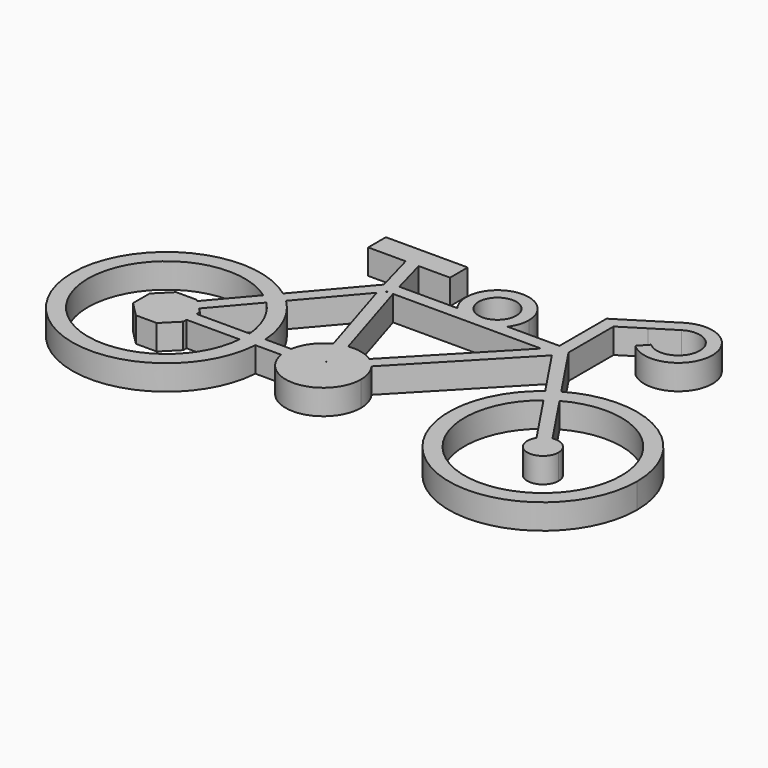
from build123d import *

# Parameters (mm, degrees)
F1_DEPTH = 4


with BuildPart() as f1:
    # F0 (on Top) → F1 (new body)
    with BuildSketch(Plane.XY):
        Polygon((-15.5243815389, 28.3477026969), (-9.5569409153, 28.3477026969), (-8.5199938287, 28.3477026969), (-7.4830467421, 28.3477026969), (-2.4825821165, 28.3477026969), (-2.4825821165, 31.8725127727), (-15.5243815389, 31.8725127727), align=None)
        with BuildLine():
            Line((7.3588635176, 22.4989129454), (11.3588635176, 22.4989129454))
            ThreePointArc((11.3588635176, 22.4989129454), (12.1022800079, 23.9177741153), (12.3588635176, 25.4989129454))
            ThreePointArc((12.3588635176, 25.4989129454), (5.7777246876, 30.2423294356), (3.3588635176, 22.4989129454))
            Line((3.3588635176, 22.4989129454), (7.3588635176, 22.4989129454))
        make_face()
        with BuildLine():
            ThreePointArc((10.3588635176, 25.4989129454), (9.4801838612, 23.3775926018), (7.3588635176, 22.4989129454))
            ThreePointArc((7.3588635176, 22.4989129454), (5.2375431741, 27.6202332889), (10.3588635176, 25.4989129454))
        make_face(mode=Mode.SUBTRACT)
        Polygon((21.6349155158, 22.5854356274), (21.5552828644, 22.4989129454), (21.6349155158, 22.4989129454), align=None)
        with BuildLine():
            Line((-10.0333704529, -1), (-5.9160797831, -1))
            ThreePointArc((-5.9160797831, -1), (-5.9789831367, -0.5017575617), (-6, 0))
            Line((-6, 0), (-10, 0))
            ThreePointArc((-10, 0), (-10.0083449345, -0.5002783193), (-10.0333704529, -1))
        make_face()
        with BuildLine():
            Line((27.2461703771, 9.8044952026), (25.8535279477, 11.8887362237))
            ThreePointArc((25.8535279477, 11.8887362237), (28.3741823442, -13.4572857736), (50, 0))
            ThreePointArc((50, 0), (42.508229605, 12.9856262151), (27.5164682401, 12.9998750917))
            Line((27.5164682401, 12.9998750917), (28.9091106695, 10.9156340706))
            ThreePointArc((28.9091106695, 10.9156340706), (41.3290553548, 10.7792883956), (47.5, 0))
            ThreePointArc((47.5, 0), (29.5535732029, -11.2510637339), (27.2461703771, 9.8044952026))
        make_face()
        with BuildLine():
            ThreePointArc((-16.0413098576, 12.0308715783), (-38.621899063, -6.2804351694), (-10.0333704529, -1))
            Line((-10.0333704529, -1), (-12.5400642056, -1))
            ThreePointArc((-12.5400642056, -1), (-36.3515825525, -5.2336959745), (-17.6691263456, 10.1246378436))
            Line((-17.6691263456, 10.1246378436), (-16.0413098576, 12.0308715783))
        make_face()
        with BuildLine():
            ThreePointArc((27.7840541056, 36.9915858101), (26.5245000959, 35.9002763927), (25.655754026, 34.4780553079))
            ThreePointArc((25.655754026, 34.4780553079), (25.4205728544, 33.7833933402), (25.2812581995, 33.0633538552))
            Line((25.2812581995, 33.0633538552), (28.8459285816, 35.2967635194))
            ThreePointArc((28.8459285816, 35.2967635194), (34.0729543544, 32.0804769566), (28.3451517253, 29.8762594705))
            Line((28.3451517253, 29.8762594705), (26.9907459113, 28.404666833))
            ThreePointArc((26.9907459113, 28.404666833), (36.0644734943, 31.8964891433), (27.7840541056, 36.9915858101))
        make_face()
        with BuildLine():
            Line((-5.6809818921, 21.7788360929), (-5.5945120398, 21.4989129454))
            Line((-5.5945120398, 21.4989129454), (4.3588635176, 21.4989129454))
            ThreePointArc((4.3588635176, 21.4989129454), (3.8233296117, 21.9633790395), (3.3588635176, 22.4989129454))
            Line((3.3588635176, 22.4989129454), (-5.8785236087, 22.4989129454))
            Line((-5.8785236087, 22.4989129454), (-5.6809818921, 21.7788360928))
        make_face()
        with BuildLine():
            Line((19.6349155158, 22.4989129454), (20.6349155158, 22.4989129454))
            Line((20.6349155158, 22.4989129454), (20.6349155158, 31.3322976225))
            Line((20.6349155158, 31.3322976225), (25.655754026, 34.4780553079))
            ThreePointArc((25.655754026, 34.4780553079), (26.5245000959, 35.9002763927), (27.7840541056, 36.9915858101))
            Line((27.7840541056, 36.9915858101), (19.6349155158, 31.8858220424))
            Line((19.6349155158, 31.8858220424), (19.6349155158, 22.4989129454))
        make_face()
        Polygon((20.1004037621, 20.4989129454), (20.4947406927, 19.9087447948), (21.0611911899, 20.4989129454), align=None)
        with BuildLine():
            ThreePointArc((4.1547675399, 4.3287303784), (4.5022097097, 3.9661199843), (4.8181111042, 3.5757244564))
            Line((4.8181111042, 3.5757244564), (20.4947406927, 19.9087447948))
            Line((20.4947406927, 19.9087447948), (20.1004037621, 20.4989129454))
            Line((20.1004037621, 20.4989129454), (19.6751034747, 20.4989129454))
            Line((19.6751034747, 20.4989129454), (4.1547675399, 4.3287303784))
        make_face()
        with BuildLine():
            ThreePointArc((27.5164682401, 12.9998750917), (27.0870611681, 12.7430529718), (26.6664584903, 12.472052193))
            Line((26.6664584903, 12.472052193), (28.0553820752, 10.3933768275))
            ThreePointArc((28.0553820752, 10.3933768275), (28.4770175144, 10.6630530099), (28.9091106695, 10.9156340706))
            Line((28.9091106695, 10.9156340706), (27.5164682401, 12.9998750917))
        make_face()
        with BuildLine():
            ThreePointArc((26.6664584903, 12.472052193), (26.2551281935, 12.1871742864), (25.8535279477, 11.8887362237))
            Line((25.8535279477, 11.8887362237), (27.2461703771, 9.8044952026))
            ThreePointArc((27.2461703771, 9.8044952026), (27.6448803225, 10.1070378712), (28.0553820752, 10.3933768275))
            Line((28.0553820752, 10.3933768275), (26.6664584903, 12.472052193))
        make_face()
        with BuildLine():
            Line((21.0611911899, 20.4989129454), (20.4947406927, 19.9087447948))
            Line((20.4947406927, 19.9087447948), (25.8535279477, 11.8887362237))
            ThreePointArc((25.8535279477, 11.8887362237), (26.2551281935, 12.1871742864), (26.6664584903, 12.472052193))
            Line((26.6664584903, 12.472052193), (21.3030927637, 20.4989129454))
            Line((21.3030927637, 20.4989129454), (21.0611911899, 20.4989129454))
        make_face()
        with BuildLine():
            ThreePointArc((-15.2591821222, 11.4068605265), (-15.6450415555, 11.7253892261), (-16.0413098576, 12.0308715783))
            Line((-16.0413098576, 12.0308715783), (-17.6691263456, 10.1246378436))
            ThreePointArc((-17.6691263456, 10.1246378436), (-17.2696924008, 9.8230516858), (-16.8826517685, 9.5057171054))
            Line((-16.8826517685, 9.5057171054), (-15.2591821222, 11.4068605265))
        make_face()
        with BuildLine():
            Line((-12.5400642056, -1), (-10.0333704529, -1))
            ThreePointArc((-10.0333704529, -1), (-10.0083449345, -0.5002783193), (-10, 0))
            Line((-10, 0), (-12.5, 0))
            ThreePointArc((-12.5, 0), (-12.5100200675, -0.5004011242), (-12.5400642056, -1))
        make_face()
        Polygon((-6.6411364824, 21.4989129454), (-5.5945120398, 21.4989129454), (-5.6809818921, 21.7788360929), (-5.8785236087, 22.4989129454), (-7.4830467421, 28.3477026969), (-8.5199938287, 28.3477026969), align=None)
        with BuildLine():
            Line((4.3588635176, 21.4989129454), (10.3588635176, 21.4989129454))
            ThreePointArc((10.3588635176, 21.4989129454), (10.8943974236, 21.9633790395), (11.3588635176, 22.4989129454))
            Line((11.3588635176, 22.4989129454), (7.3588635176, 22.4989129454))
            Line((7.3588635176, 22.4989129454), (3.3588635176, 22.4989129454))
            ThreePointArc((3.3588635176, 22.4989129454), (3.8233296117, 21.9633790395), (4.3588635176, 21.4989129454))
        make_face()
        with BuildLine():
            Line((10.3588635176, 21.4989129454), (19.2488278006, 21.4989129454))
            Line((19.2488278006, 21.4989129454), (19.6349155158, 21.9011664061))
            Line((19.6349155158, 21.9011664061), (19.6349155158, 22.4989129454))
            Line((19.6349155158, 22.4989129454), (11.3588635176, 22.4989129454))
            ThreePointArc((11.3588635176, 22.4989129454), (10.8943974236, 21.9633790395), (10.3588635176, 21.4989129454))
        make_face()
        with BuildLine():
            Line((-7.7456900513, 21.7453513374), (-16.0413098576, 12.0308715783))
            ThreePointArc((-16.0413098576, 12.0308715783), (-15.6450415555, 11.7253892261), (-15.2591821222, 11.4068605265))
            Line((-15.2591821222, 11.4068605265), (-7.4097298942, 20.5988614343))
            Line((-7.4097298942, 20.5988614343), (-6.6411364824, 21.4989129454))
            Line((-6.6411364824, 21.4989129454), (-8.5199938287, 28.3477026969))
            Line((-8.5199938287, 28.3477026969), (-9.5569409153, 28.3477026969))
            Line((-9.5569409153, 28.3477026969), (-7.7456900513, 21.7453513374))
        make_face()
        Polygon((19.6349155158, 21.4989129454), (20.6349155158, 21.4989129454), (20.6349155158, 22.4989129454), (19.6349155158, 22.4989129454), (19.6349155158, 21.9011664061), align=None)
        with BuildLine():
            Line((20.6349155158, 31.3322976225), (20.6349155158, 22.4989129454))
            Line((20.6349155158, 22.4989129454), (21.5552828644, 22.4989129454))
            Line((21.5552828644, 22.4989129454), (21.6349155158, 22.5854356274))
            Line((21.6349155158, 22.5854356274), (21.6349155158, 30.7787732025))
            Line((21.6349155158, 30.7787732025), (25.2812581995, 33.0633538552))
            ThreePointArc((25.2812581995, 33.0633538552), (25.4205728544, 33.7833933402), (25.655754026, 34.4780553079))
            Line((25.655754026, 34.4780553079), (20.6349155158, 31.3322976225))
        make_face()
        with BuildLine():
            ThreePointArc((-5.9160797831, -1), (0.5017575617, -5.9789831367), (6, 0))
            ThreePointArc((6, 0), (5.6968704841, 1.8829940753), (4.8181111042, 3.5757244564))
            ThreePointArc((4.8181111042, 3.5757244564), (4.5022097097, 3.9661199843), (4.1547675399, 4.3287303784))
            Line((4.1547675399, 4.3287303784), (0.7917937299, 0.824946652))
            Line((0.7917937299, 0.824946652), (0, 0))
            Line((0, 0), (-1.0466244425, 0))
            Line((-1.0466244425, 0), (-6, 0))
            ThreePointArc((-6, 0), (-5.9789831367, -0.5017575617), (-5.9160797831, -1))
        make_face()
        with BuildLine():
            Line((21.3030927637, 20.4989129454), (26.6664584903, 12.472052193))
            ThreePointArc((26.6664584903, 12.472052193), (27.0870611681, 12.7430529718), (27.5164682401, 12.9998750917))
            Line((27.5164682401, 12.9998750917), (21.6349155158, 21.8022591043))
            Line((21.6349155158, 21.8022591043), (21.6349155158, 22.4989129454))
            Line((21.6349155158, 22.4989129454), (21.5552828644, 22.4989129454))
            Line((21.5552828644, 22.4989129454), (20.6349155158, 21.4989129454))
            Line((20.6349155158, 21.4989129454), (21.2038088624, 20.6475021133))
            Line((21.2038088624, 20.6475021133), (21.3030927637, 20.4989129454))
        make_face()
        with BuildLine():
            Line((-12.5400642056, 1), (-10.0333704529, 1))
            ThreePointArc((-10.0333704529, 1), (-11.378100937, 6.2804351694), (-14.5203951207, 10.7320958612))
            Line((-14.5203951207, 10.7320958612), (-16.1482116088, 8.8258621265))
            ThreePointArc((-16.1482116088, 8.8258621265), (-13.6484174475, 5.2336959745), (-12.5400642056, 1))
        make_face()
        with BuildLine():
            ThreePointArc((-16.1482116088, 8.8258621265), (-16.5086249566, 9.1731428568), (-16.8826517685, 9.5057171054))
            Line((-16.8826517685, 9.5057171054), (-22.3944001818, 3.0512544313))
            Line((-22.3944001818, 3.0512544313), (-21.6851024654, 2.3419567149))
            Line((-21.6851024654, 2.3419567149), (-16.1482116088, 8.8258621265))
        make_face()
        with BuildLine():
            ThreePointArc((-16.8826517685, 9.5057171054), (-17.2696924008, 9.8230516858), (-17.6691263456, 10.1246378436))
            Line((-17.6691263456, 10.1246378436), (-23.1036978982, 3.7605521477))
            Line((-23.1036978982, 3.7605521477), (-22.3944001818, 3.0512544313))
            Line((-22.3944001818, 3.0512544313), (-16.8826517685, 9.5057171054))
        make_face()
        Polygon((-21, -1.6568542495), (-21, -1), (-21, 0), (-23.6850018929, 0), (-25, 0), (-24.1460561953, 1), (-22.3944001818, 3.0512544313), (-23.1036978982, 3.7605521477), (-23.3431457505, 4), (-26.6568542495, 4), (-29, 1.6568542495), (-29, -1.6568542495), (-26.6568542495, -4), (-23.3431457505, -4), align=None)
        Polygon((-21.6851024654, 2.3419567149), (-22.3944001818, 3.0512544313), (-24.1460561953, 1), (-22.8310580882, 1), align=None)
        Polygon((-25, 0), (-23.6850018929, 0), (-22.8310580882, 1), (-24.1460561953, 1), align=None)
        Polygon((-23.6850018929, 0), (-21, 0), (-21, 1), (-22.8310580882, 1), align=None)
        with BuildLine():
            Line((-21, 0), (-12.5, 0))
            ThreePointArc((-12.5, 0), (-12.5100200675, 0.5004011242), (-12.5400642056, 1))
            Line((-12.5400642056, 1), (-21, 1))
            Line((-21, 1), (-21, 0))
        make_face()
        with BuildLine():
            Line((-21, -1), (-12.5400642056, -1))
            ThreePointArc((-12.5400642056, -1), (-12.5100200675, -0.5004011242), (-12.5, 0))
            Line((-12.5, 0), (-21, 0))
            Line((-21, 0), (-21, -1))
        make_face()
        with BuildLine():
            ThreePointArc((-2.7015523213, 5.3573888281), (-4.8283128649, 3.561936956), (-5.9160797831, 1))
            Line((-5.9160797831, 1), (-1.35553013, 1))
            Line((-1.35553013, 1), (-2.7015523213, 5.3573888281))
        make_face()
        with BuildLine():
            ThreePointArc((-5.9160797831, 1), (-5.9789831367, 0.5017575617), (-6, 0))
            Line((-6, 0), (-1.0466244425, 0))
            Line((-1.0466244425, 0), (-1.1292765039, 0.2675640649))
            Line((-1.1292765039, 0.2675640649), (-1.35553013, 1))
            Line((-1.35553013, 1), (-5.9160797831, 1))
        make_face()
        with BuildLine():
            Line((-10, 0), (-6, 0))
            ThreePointArc((-6, 0), (-5.9789831367, 0.5017575617), (-5.9160797831, 1))
            Line((-5.9160797831, 1), (-10.0333704529, 1))
            ThreePointArc((-10.0333704529, 1), (-10.0083449345, 0.5002783193), (-10, 0))
        make_face()
        with BuildLine():
            Line((-12.5, 0), (-10, 0))
            ThreePointArc((-10, 0), (-10.0083449345, 0.5002783193), (-10.0333704529, 1))
            Line((-10.0333704529, 1), (-12.5400642056, 1))
            ThreePointArc((-12.5400642056, 1), (-12.5100200675, 0.5004011242), (-12.5, 0))
        make_face()
        with BuildLine():
            Line((0.4543109559, 1.917457369), (3.375200978, 4.9606469697))
            ThreePointArc((3.375200978, 4.9606469697), (1.3833066376, 5.8383613066), (-0.790647207, 5.947678286))
            Line((-0.790647207, 5.947678286), (0.4543109559, 1.917457369))
        make_face()
        with BuildLine():
            Line((0.4543109559, 1.917457369), (-0.790647207, 5.947678286))
            ThreePointArc((-0.790647207, 5.947678286), (-1.285259812, 5.8607258267), (-1.7708683738, 5.7327153429))
            Line((-1.7708683738, 5.7327153429), (-0.337482774, 1.0925107169))
            Line((-0.337482774, 1.0925107169), (0.4543109559, 1.917457369))
        make_face()
        with BuildLine():
            ThreePointArc((-1.7708683738, 5.7327153429), (-2.2440709028, 5.5645436276), (-2.7015523213, 5.3573888281))
            Line((-2.7015523213, 5.3573888281), (-1.35553013, 1))
            Line((-1.35553013, 1), (-0.4262756741, 1))
            Line((-0.4262756741, 1), (-0.337482774, 1.0925107169))
            Line((-0.337482774, 1.0925107169), (-1.7708683738, 5.7327153429))
        make_face()
        with BuildLine():
            Line((0.7917937299, 0.824946652), (4.1547675399, 4.3287303784))
            ThreePointArc((4.1547675399, 4.3287303784), (3.7782186431, 4.6610153277), (3.375200978, 4.9606469697))
            Line((3.375200978, 4.9606469697), (0.4543109559, 1.917457369))
            Line((0.4543109559, 1.917457369), (0.7917937299, 0.824946652))
        make_face()
        with BuildLine():
            ThreePointArc((3.375200978, 4.9606469697), (3.7782186431, 4.6610153277), (4.1547675399, 4.3287303784))
            Line((4.1547675399, 4.3287303784), (19.6751034747, 20.4989129454))
            Line((19.6751034747, 20.4989129454), (18.2890157595, 20.4989129454))
            Line((18.2890157595, 20.4989129454), (3.375200978, 4.9606469697))
        make_face()
        with BuildLine():
            Line((-7.4097298942, 20.5988614343), (-15.2591821222, 11.4068605265))
            ThreePointArc((-15.2591821222, 11.4068605265), (-14.8841608872, 11.0756398932), (-14.5203951207, 10.7320958612))
            Line((-14.5203951207, 10.7320958612), (-7.060406618, 19.4680202412))
            Line((-7.060406618, 19.4680202412), (-7.4097298942, 20.5988614343))
        make_face()
        with BuildLine():
            ThreePointArc((-14.5203951207, 10.7320958612), (-14.8841608872, 11.0756398932), (-15.2591821222, 11.4068605265))
            Line((-15.2591821222, 11.4068605265), (-16.8826517685, 9.5057171054))
            ThreePointArc((-16.8826517685, 9.5057171054), (-16.5086249566, 9.1731428568), (-16.1482116088, 8.8258621265))
            Line((-16.1482116088, 8.8258621265), (-14.5203951207, 10.7320958612))
        make_face()
        Polygon((-6.18008218, 20.4989129454), (-5.2856063524, 20.4989129454), (-5.5945120398, 21.4989129454), (-6.6411364824, 21.4989129454), (-6.3322307949, 20.4989129454), align=None)
        Polygon((-7.4097298942, 20.5988614343), (-7.060406618, 19.4680202412), (-6.2918132062, 20.3680717523), (-6.3322307949, 20.4989129454), (-6.6411364824, 21.4989129454), align=None)
        with BuildLine():
            Line((-5.5945120398, 21.4989129454), (-5.2856063524, 20.4989129454))
            Line((-5.2856063524, 20.4989129454), (7.3588635176, 20.4989129454))
            ThreePointArc((7.3588635176, 20.4989129454), (5.7777246876, 20.7554964551), (4.3588635176, 21.4989129454))
            Line((4.3588635176, 21.4989129454), (-5.5945120398, 21.4989129454))
        make_face()
        Polygon((18.2890157595, 20.4989129454), (19.6751034747, 20.4989129454), (19.9258473461, 20.7601556269), (20.6349155158, 21.4989129454), (19.6349155158, 21.4989129454), (19.2488278006, 21.4989129454), align=None)
        Polygon((19.9258473461, 20.7601556269), (20.1004037621, 20.4989129454), (21.0611911899, 20.4989129454), (21.2038088624, 20.6475021133), (20.6349155158, 21.4989129454), align=None)
        Polygon((21.2038088624, 20.6475021133), (21.0611911899, 20.4989129454), (21.3030927637, 20.4989129454), align=None)
        Polygon((19.9258473461, 20.7601556269), (19.6751034747, 20.4989129454), (20.1004037621, 20.4989129454), align=None)
        Polygon((19.6349155158, 21.9011664061), (19.2488278006, 21.4989129454), (19.6349155158, 21.4989129454), align=None)
        Polygon((-0.4262756741, 1), (-1.35553013, 1), (-1.1292765039, 0.2675640649), align=None)
        Polygon((-1.1292765039, 0.2675640649), (-1.0466244425, 0), (0, 0), (-0.3089056874, 1), (-0.4262756741, 1), align=None)
        Polygon((0, 0), (0.7917937299, 0.824946652), (0.4543109559, 1.917457369), (-0.337482774, 1.0925107169), (-0.3089056874, 1), align=None)
        Polygon((-22.8310580882, 1), (-21, 1), (-21, 1.6568542495), (-21.6851024654, 2.3419567149), align=None)
        with BuildLine():
            ThreePointArc((28.9091106695, 10.9156340706), (28.4770175144, 10.6630530099), (28.0553820752, 10.3933768275))
            Line((28.0553820752, 10.3933768275), (33.611076415, 2.0786753655))
            ThreePointArc((33.611076415, 2.0786753655), (34.0650673578, 2.3185989206), (34.5585006537, 2.4607068755))
            Line((34.5585006537, 2.4607068755), (28.9091106695, 10.9156340706))
        make_face()
        with BuildLine():
            ThreePointArc((28.0553820752, 10.3933768275), (27.6448803225, 10.1070378712), (27.2461703771, 9.8044952026))
            Line((27.2461703771, 9.8044952026), (32.8955603613, 1.3495680076))
            ThreePointArc((32.8955603613, 1.3495680076), (33.2156805112, 1.7510579551), (33.611076415, 2.0786753655))
            Line((33.611076415, 2.0786753655), (28.0553820752, 10.3933768275))
        make_face()
        with BuildLine():
            ThreePointArc((33.611076415, 2.0786753655), (33.2156805112, 1.7510579551), (32.8955603613, 1.3495680076))
            ThreePointArc((32.8955603613, 1.3495680076), (34.2968282915, -2.3990726434), (37.5, 0))
            ThreePointArc((37.5, 0), (36.6040965735, 1.9175177138), (34.5585006537, 2.4607068755))
            ThreePointArc((34.5585006537, 2.4607068755), (34.0650673578, 2.3185989206), (33.611076415, 2.0786753655))
        make_face()
        with BuildLine():
            Line((-7.060406618, 19.4680202412), (-2.7015523213, 5.3573888281))
            ThreePointArc((-2.7015523213, 5.3573888281), (-2.2440709028, 5.5645436276), (-1.7708683738, 5.7327153429))
            Line((-1.7708683738, 5.7327153429), (-6.2918132062, 20.3680717523))
            Line((-6.2918132062, 20.3680717523), (-7.060406618, 19.4680202412))
        make_face()
        with BuildLine():
            ThreePointArc((-1.7708683738, 5.7327153429), (-1.285259812, 5.8607258267), (-0.790647207, 5.947678286))
            Line((-0.790647207, 5.947678286), (-5.2856063524, 20.4989129454))
            Line((-5.2856063524, 20.4989129454), (-6.18008218, 20.4989129454))
            Line((-6.18008218, 20.4989129454), (-6.2918132062, 20.3680717523))
            Line((-6.2918132062, 20.3680717523), (-1.7708683738, 5.7327153429))
        make_face()
        with BuildLine():
            ThreePointArc((4.3588635176, 21.4989129454), (5.7777246876, 20.7554964551), (7.3588635176, 20.4989129454))
            ThreePointArc((7.3588635176, 20.4989129454), (8.9400023477, 20.7554964551), (10.3588635176, 21.4989129454))
            Line((10.3588635176, 21.4989129454), (4.3588635176, 21.4989129454))
        make_face()
        with BuildLine():
            Line((7.3588635176, 20.4989129454), (18.2890157595, 20.4989129454))
            Line((18.2890157595, 20.4989129454), (19.2488278006, 21.4989129454))
            Line((19.2488278006, 21.4989129454), (10.3588635176, 21.4989129454))
            ThreePointArc((10.3588635176, 21.4989129454), (8.9400023477, 20.7554964551), (7.3588635176, 20.4989129454))
        make_face()
        Polygon((20.6349155158, 22.4989129454), (20.6349155158, 21.4989129454), (21.5552828644, 22.4989129454), align=None)
    extrude(amount=F1_DEPTH)


solid = f1.part
